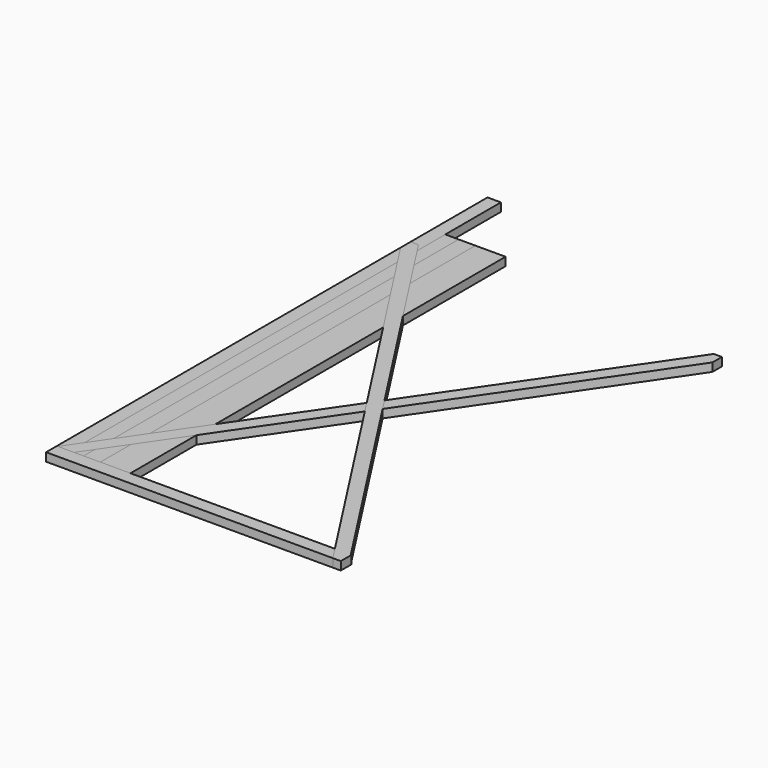
from build123d import *

# Parameters (mm, degrees)
F0_W      = 139.7
F0_H      = 914.4
F1_DEPTH  = 15.875
F2_W      = 82.55
F2_H      = 914.4
F3_DEPTH  = 15.875
F4_W      = 50.8
F4_H      = 914.4
F5_DEPTH  = 15.875
F6_W      = 25.4
F6_H      = 914.4
F7_DEPTH  = 15.875
F8_W      = 25.4
F8_H      = 590.55
F9_DEPTH  = 15.875
F10_W     = 25.4
F10_H     = 1046.226
F11_DEPTH = 15.875
F13_DEPTH = 15.875
F14_W     = 558.8
F14_H     = 25.4
F15_DEPTH = 15.875
F17_DEPTH = 15.875


with BuildPart() as f1:
    # F0 (on Top) → F1 (new body)
    with BuildSketch(Plane.XY):
        with Locations((69.85, 457.2)):
            Rectangle(F0_W, F0_H)
    extrude(amount=F1_DEPTH)


with BuildPart() as f3:
    # F2 (on Top) → F3 (new body)
    with BuildSketch(Plane.XY):
        with Locations((41.275, 457.2)):
            Rectangle(F2_W, F2_H)
    extrude(amount=F3_DEPTH)


with BuildPart() as f5:
    # F4 (on Top) → F5 (new body)
    with BuildSketch(Plane.XY):
        with Locations((25.4, 457.2)):
            Rectangle(F4_W, F4_H)
    extrude(amount=F5_DEPTH)


with BuildPart() as f7:
    # F6 (on Top) → F7 (new body)
    with BuildSketch(Plane.XY):
        with Locations((12.7, 457.2)):
            Rectangle(F6_W, F6_H)
    extrude(amount=F7_DEPTH)


with BuildPart() as f9:
    # F8 (on Top) → F9 (new body)
    with BuildSketch(Plane.XY):
        with Locations((12.7, 295.275)):
            Rectangle(F8_W, F8_H)
    extrude(amount=F9_DEPTH)


with BuildPart() as f11:
    # F10 (on Top) → F11 (new body)
    with BuildSketch(Plane.XY):
        with Locations((12.7, 523.113)):
            Rectangle(F10_W, F10_H)
    extrude(amount=F11_DEPTH)


with BuildPart() as f13:
    # F12 (on Top) → F13 (new body)
    with BuildSketch(Plane.XY):
        Polygon((575.164567, 863.6), (0, 22.499128), (0, 0), (15.385433, 0), (590.55, 841.100872), (590.55, 863.6), align=None)
    extrude(amount=F13_DEPTH)


with BuildPart() as f15:
    # F14 (on Top) → F15 (new body)
    with BuildSketch(Plane.XY):
        with Locations((279.4, 12.7)):
            Rectangle(F14_W, F14_H)
    extrude(amount=F15_DEPTH)


with BuildPart() as f17:
    # F16 (on Top) → F17 (new body)
    with BuildSketch(Plane.XY):
        Polygon((0, 863.6), (0, 840.222236), (543.673212, 0), (558.8, 0), (558.8, 23.377764), (15.126788, 863.6), align=None)
    extrude(amount=F17_DEPTH)


solid = Compound([f1.part, f3.part, f5.part, f7.part, f9.part, f11.part, f13.part, f15.part, f17.part])
